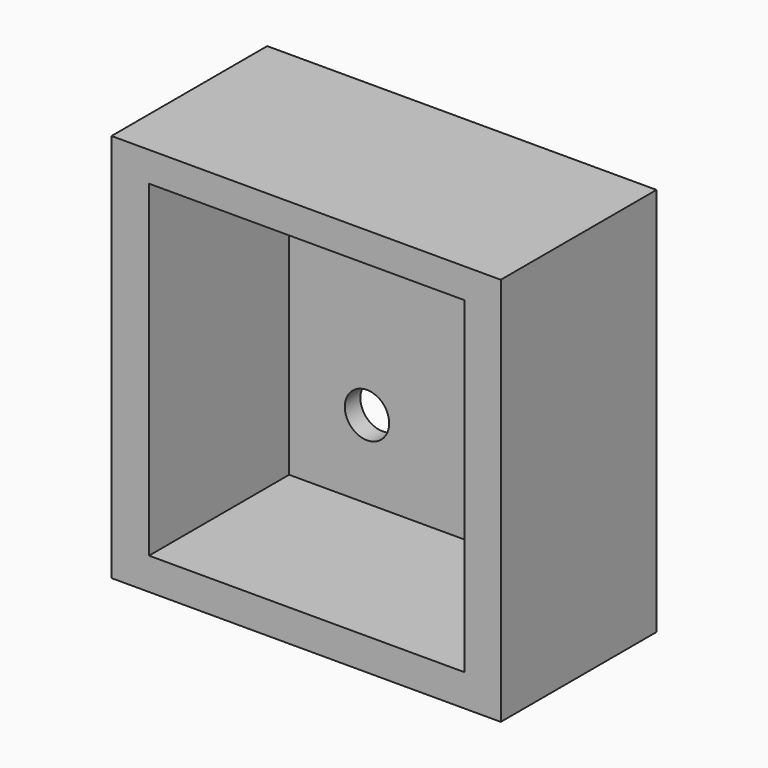
from build123d import *

# Parameters (mm, degrees)
F0_W     = 100
F0_H     = 100
F1_DEPTH = 50
F2_W     = 81.016191
F2_H     = 84.132194
F3_DEPTH = 45
F5_R     = 5.36646
F5_R_2   = 5.878275
F5_R_3   = 6.161524
F5_R_4   = 5.700697
F6_DEPTH = 25
F4_R     = 5.700697
F4_R_2   = 5.36646
F4_R_3   = 5.878275
F4_R_4   = 6.161524
F7_DEPTH = 19.5


with BuildPart() as f1:
    # F0 (on Front) → F1 (new body)
    with BuildSketch(Plane.XZ):
        Rectangle(F0_W, F0_H)
    extrude(amount=F1_DEPTH)

    # F2 (on face) → F3 (cut)
    with BuildSketch(Plane.XZ.offset(50)):
        with Locations((0.141635, 0.283275)):
            Rectangle(F2_W, F2_H)
    extrude(amount=-F3_DEPTH, mode=Mode.SUBTRACT)

    # F5 (on face) → F6 (cut)
    with BuildSketch(Plane.XZ.offset(5)):
        with Locations((-20.36646, 22.349372)):
            Circle(F5_R)
        with Locations((20.649731, 22.349372)):
            Circle(F5_R_2)
        with Locations((20.649731, -21.782822)):
            Circle(F5_R_3)
        with Locations((-20.36646, -21.782822)):
            Circle(F5_R_4)
    extrude(amount=-F6_DEPTH, mode=Mode.SUBTRACT)

    # F4 (on face) → F7 (cut)
    with BuildSketch(Plane.XZ.offset(5)):
        with Locations((-20.36646, -21.782822)):
            Circle(F4_R)
        with Locations((-20.36646, 22.349372)):
            Circle(F4_R_2)
        with Locations((20.649731, 22.349372)):
            Circle(F4_R_3)
        with Locations((20.649731, -21.782822)):
            Circle(F4_R_4)
    extrude(amount=-F7_DEPTH, mode=Mode.SUBTRACT)


solid = f1.part
